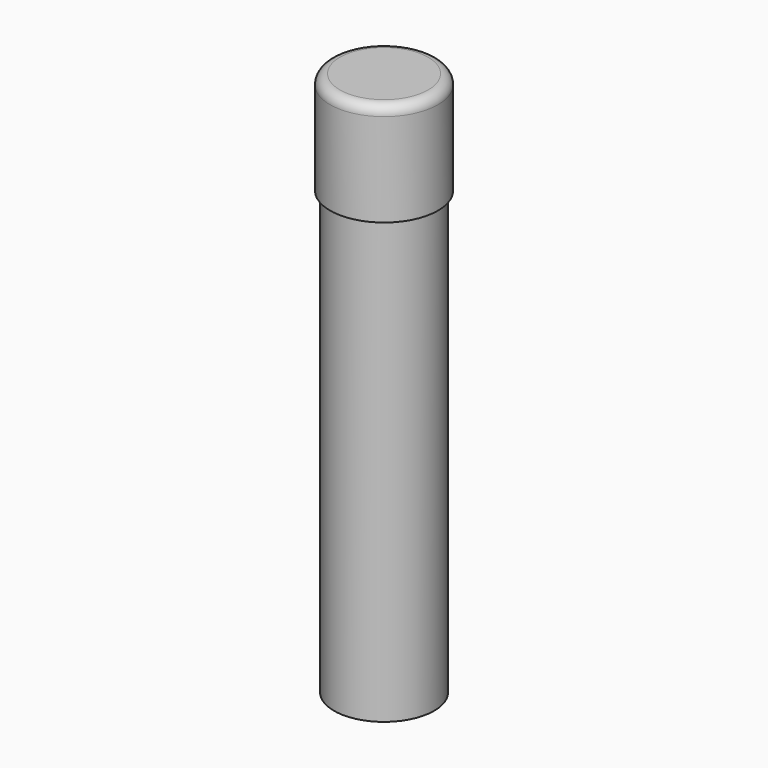
from build123d import *

# Parameters (mm, degrees)
F0_R     = 55
F0_R_2   = 51
F0_R_3   = 47
F1_DEPTH = 5
F2_DEPTH = 50
F3_DEPTH = 100
F4_R     = 10
F5_DEPTH = 500
F6_DEPTH = 50


with BuildPart() as f1:
    # F0 (on Top) → F1 (new body)
    with BuildSketch(Plane.XY):
        Circle(F0_R)
        Circle(F0_R_2, mode=Mode.SUBTRACT)
        Circle(F0_R_2)
        Circle(F0_R_3, mode=Mode.SUBTRACT)
        Circle(F0_R_3)
    extrude(amount=F1_DEPTH)

    # F0 (on Top) → F2 (join)
    with BuildSketch(Plane.XY):
        Circle(F0_R_2)
        Circle(F0_R_3, mode=Mode.SUBTRACT)
    extrude(amount=-F2_DEPTH)

    # F0 (on Top) → F3 (join)
    with BuildSketch(Plane.XY):
        Circle(F0_R)
        Circle(F0_R_2, mode=Mode.SUBTRACT)
    extrude(amount=-F3_DEPTH)

    # F4
    f4_edges = [f1.edges().sort_by_distance(p)[0] for p in [
        (-55, 0, 5),
    ]]
    fillet(f4_edges, radius=F4_R)

    # F5 (add): a face of the model
    f5_faces = [f1.faces().sort_by_distance(p)[0] for p in [
        (-49.5575021664, 0, -50),
    ]]
    extrude(f5_faces, amount=F5_DEPTH)

    # F6 (add): a face of the model
    f6_faces = [f1.faces().sort_by_distance(p)[0] for p in [
        (-53.4443650814, 0, -100),
    ]]
    extrude(f6_faces, amount=-F6_DEPTH)


solid = f1.part
